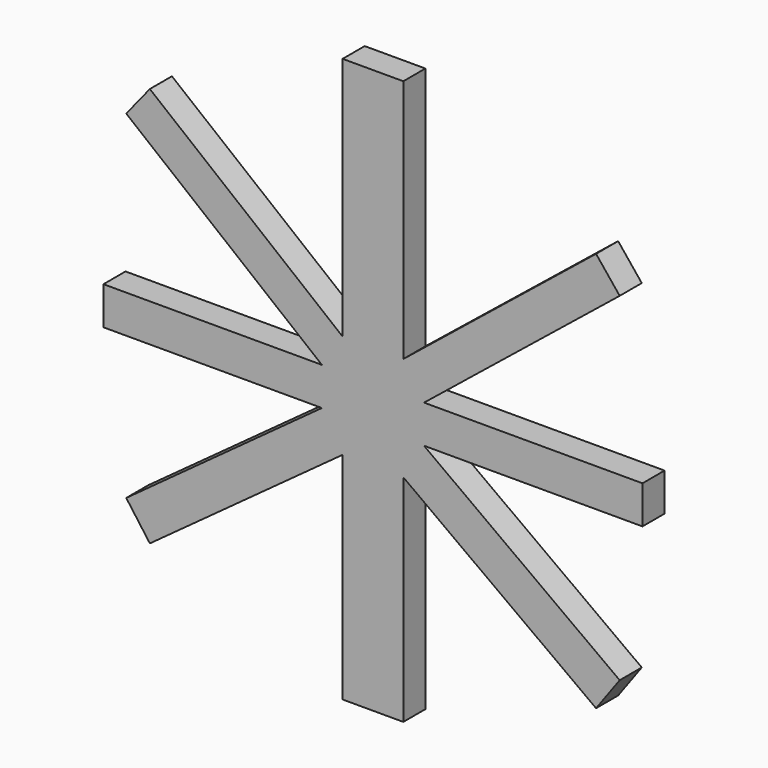
from build123d import *

# Parameters (mm, degrees)
F1_DEPTH = 3.048
F2_SCALE = 0.9


with BuildPart() as f1:
    # F0 (on Front) → F1 (new body)
    with BuildSketch(Plane.XZ):
        Polygon((3.3501721919, 67.3975870013), (0, 67.3975870013), (0, 5.1237931475), (3.3501721919, 5.1237931475), (3.3501721919, 28.9080845579), (24.633621797, 13.3751591098), (27.2410747923, 16.9479306787), (5.6389208675, 32.7134504914), (29.7574140131, 32.7134504914), (29.7574140131, 36.9055655311), (5.6389208675, 36.9055655311), (27.2410747923, 54.3072999545), (24.633621797, 57.5441382825), (3.3501721919, 40.3991378844), align=None)
        Polygon((0, 5.1237931475), (0, 67.3975870013), (-3.3501721919, 67.3975870013), (-3.3501721919, 40.3991378844), (-24.633621797, 57.5441382825), (-27.2410747923, 54.3072999545), (-5.6389208675, 36.9055655311), (-29.7574140131, 36.9055655311), (-29.7574140131, 32.7134504914), (-5.6389208675, 32.7134504914), (-27.2410747923, 16.9479306787), (-24.633621797, 13.3751591098), (-3.3501721919, 28.9080845579), (-3.3501721919, 5.1237931475), align=None)
    extrude(amount=F1_DEPTH)


with BuildPart() as f1_1:
    # F2: moved
    add(f1.part.scale(F2_SCALE))


solid = f1_1.part
